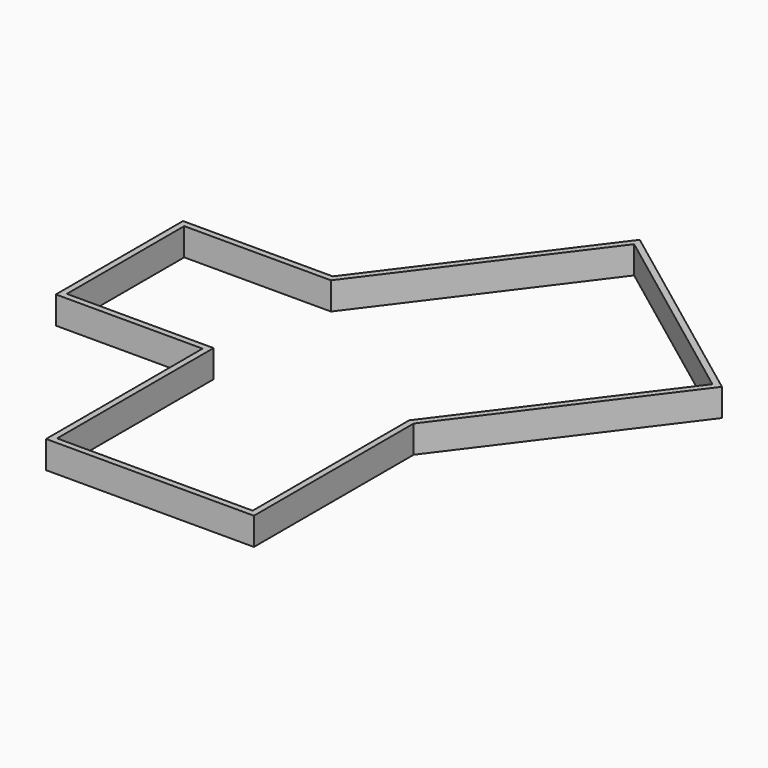
from build123d import *

# Parameters (mm, degrees)
PAD_DEPTH = 9


with BuildPart() as part:
    # Sketch → Pad (new body)
    with BuildSketch(Plane.XY):
        Polygon((-1, 50), (-50, 50), (-50, -2), (-2, -2), (-2, -66), (66, -66), (66, -0.666667), (114.8, 64.4), (47.6, 114.8), align=None)
        Polygon((0, 48), (48, 112), (112, 64), (64, 0), (64, -64), (0, -64), (0, 0), (-48, 0), (-48, 48), align=None, mode=Mode.SUBTRACT)
    extrude(amount=PAD_DEPTH)


solid = part.part
